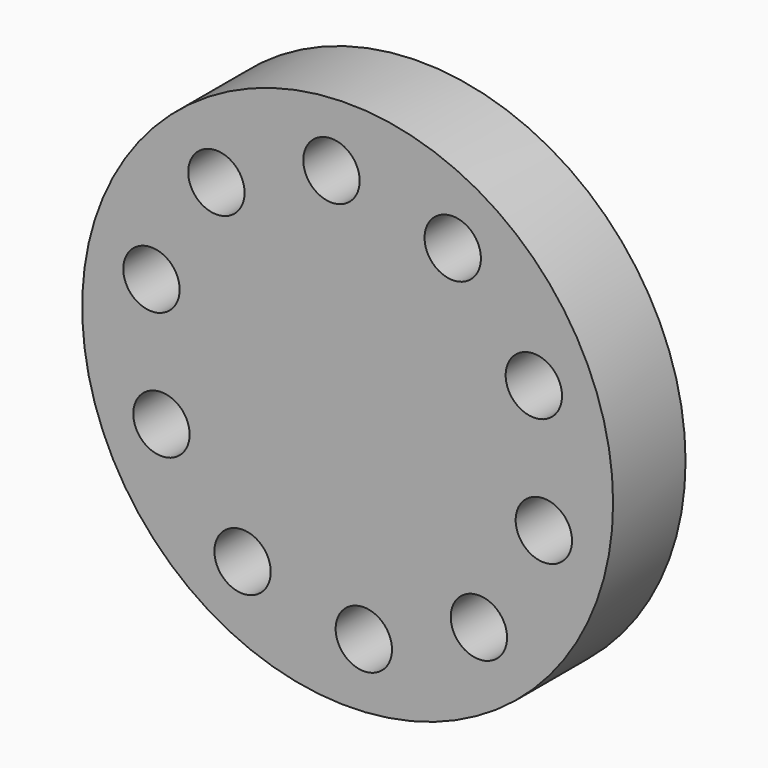
from build123d import *

# Parameters (mm, degrees)
F0_R     = 70.653692
F0_R_2   = 7.5
F1_DEPTH = 24.1


with BuildPart() as f1:
    # F0 (on Front) → F1 (new body)
    with BuildSketch(Plane.XZ):
        Circle(F0_R)
        with Locations((-27.966831, -45.815672)):
            Circle(F0_R_2, mode=Mode.SUBTRACT)
        with Locations((-49.555418, -20.627166)):
            Circle(F0_R_2, mode=Mode.SUBTRACT)
        with Locations((4.304135, -53.504148)):
            Circle(F0_R_2, mode=Mode.SUBTRACT)
        with Locations((34.931067, -40.755858)):
            Circle(F0_R_2, mode=Mode.SUBTRACT)
        with Locations((52.215519, -12.440216)):
            Circle(F0_R_2, mode=Mode.SUBTRACT)
        with Locations((-52.215519, 12.440216)):
            Circle(F0_R_2, mode=Mode.SUBTRACT)
        with Locations((-34.931067, 40.755858)):
            Circle(F0_R_2, mode=Mode.SUBTRACT)
        with Locations((-4.304135, 53.504148)):
            Circle(F0_R_2, mode=Mode.SUBTRACT)
        with Locations((49.555418, 20.627166)):
            Circle(F0_R_2, mode=Mode.SUBTRACT)
        with Locations((27.966831, 45.815672)):
            Circle(F0_R_2, mode=Mode.SUBTRACT)
    extrude(amount=F1_DEPTH)


solid = f1.part
